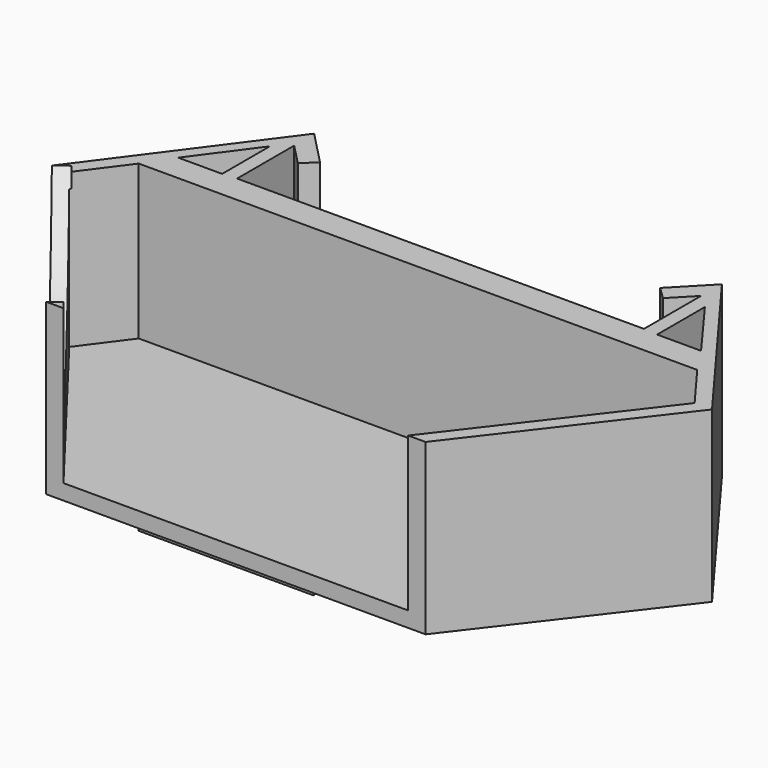
from build123d import *

# Parameters (mm, degrees)
F1_DEPTH = 25.4
F3_DEPTH = 2.54
F4_DEPTH = 2.54
F6_DEPTH = 25.4


with BuildPart() as f1:
    # F0 (on Top) → F1 (new body)
    with BuildSketch(Plane.XY):
        Polygon((35.4939039202, 3.9029268082), (12.342310436, -26.2274350854), (15.2102268336, -26.2274350854), (38.3618203178, 3.9029268082), (17.5462131575, 31.9668278098), (11.970603764, 26.2053646147), (14.0355655072, 24.2070145946), (17.4720109704, 27.7580083355), (17.4720109704, 15.9834139049), (-16.084820535, 15.9834139049), (-49.6416520405, 15.9834139049), (-49.6416520405, 27.7580083355), (-46.2052065773, 24.2070145946), (-44.1402448341, 26.2053646147), (-49.7158542275, 31.9668278098), (-70.5314613879, 3.9029268082), (-47.3798679037, -26.2274350854), (-44.5119515061, -26.2274350854), (-67.6635449903, 3.9029268082), (-62.1494763114, 11.3370735198), (-16.084820535, 11.3370735198), (29.9798352413, 11.3370735198), align=None)
        Polygon((-51.9630546496, 25.6478060037), (-51.9630546496, 15.7975610346), (-59.2113519833, 15.7975610346), align=None, mode=Mode.SUBTRACT)
        Polygon((19.7934135795, 15.7975610346), (19.7934135795, 25.6478060037), (27.0417109132, 15.7975610346), align=None, mode=Mode.SUBTRACT)
    extrude(amount=F1_DEPTH)

    # F2 (on face) → F3 (cut)
    with BuildSketch(Plane(origin=(-42.4623607514, -32.6272654131, 0), x_dir=(0.6092872739, -0.7929495683, 0), z_dir=(-0.7929495683, -0.6092872739, 0))):
        with BuildLine():
            Line((-8.0709172227, 25.4), (-46.0687459593, 25.4))
            add(Edge.make_bspline(
                [(-46.0687459593, 25.4), (-40.915928781, 17.5322014838), (-30.6555183473, 9.8364153651), (-15.6398303807, 8.4253717214), (-8.0709172227, 0)],
                knots=[0, 0, 0, 0, 0.4807876379, 1, 1, 1, 1], degree=3))
            Line((-8.0709172227, 0), (-8.0709172227, 25.4))
        make_face()
    extrude(amount=-F3_DEPTH, mode=Mode.SUBTRACT)

    # F0 (on Top) → F4 (join)
    with BuildSketch(Plane.XY):
        Polygon((-44.5119515061, -26.2274350854), (-16.084820535, -26.2274350854), (12.342310436, -26.2274350854), (35.4939039202, 3.9029268082), (29.9798352413, 11.3370735198), (-16.084820535, 11.3370735198), (-62.1494763114, 11.3370735198), (-67.6635449903, 3.9029268082), align=None)
        Polygon((35.4939039202, 3.9029268082), (12.342310436, -26.2274350854), (15.2102268336, -26.2274350854), (38.3618203178, 3.9029268082), (17.5462131575, 31.9668278098), (11.970603764, 26.2053646147), (14.0355655072, 24.2070145946), (17.4720109704, 27.7580083355), (17.4720109704, 15.9834139049), (-16.084820535, 15.9834139049), (-49.6416520405, 15.9834139049), (-49.6416520405, 27.7580083355), (-46.2052065773, 24.2070145946), (-44.1402448341, 26.2053646147), (-49.7158542275, 31.9668278098), (-70.5314613879, 3.9029268082), (-47.3798679037, -26.2274350854), (-44.5119515061, -26.2274350854), (-67.6635449903, 3.9029268082), (-62.1494763114, 11.3370735198), (-16.084820535, 11.3370735198), (29.9798352413, 11.3370735198), align=None)
        Polygon((-51.9630546496, 25.6478060037), (-51.9630546496, 15.7975610346), (-59.2113519833, 15.7975610346), align=None, mode=Mode.SUBTRACT)
        Polygon((19.7934135795, 15.7975610346), (19.7934135795, 25.6478060037), (27.0417109132, 15.7975610346), align=None, mode=Mode.SUBTRACT)
        Polygon((-59.2113519833, 15.7975610346), (-51.9630546496, 15.7975610346), (-51.9630546496, 25.6478060037), align=None)
    extrude(amount=-F4_DEPTH)

    # F5 (on face) → F6 (join)
    with BuildSketch(Plane(origin=(0, 0, -2.54), x_dir=(1, 0, 0), z_dir=(0, 0, -1))):
        Polygon((-49.6416520405, -15.9834139049), (-33.3581715822, -15.9834139049), (-33.3581715822, -11.3370744511), (-62.1654912829, -11.3370744511), (-58.0767057836, -15.9834139049), align=None)
    extrude(amount=F6_DEPTH)


solid = f1.part
